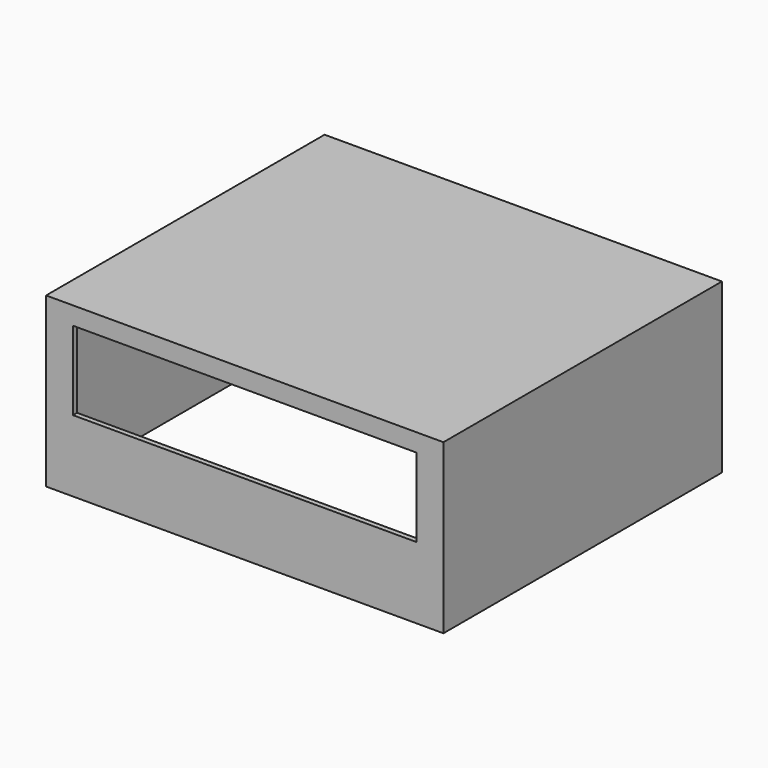
from build123d import *

# Parameters (mm, degrees)
F0_W     = 2220
F0_H     = 1945
F1_DEPTH = 940
F2_T     = -28.5
F3_W     = 1920
F3_H     = 440
F4_DEPTH = 28.5
F5_W     = 1920
F5_H     = 440
F6_DEPTH = 28.5


with BuildPart() as f1:
    # F0 (on Top) → F1 (new body)
    with BuildSketch(Plane.XY):
        Rectangle(F0_W, F0_H)
    extrude(amount=F1_DEPTH)

    # F2
    f2_openings = [f1.faces().sort_by_distance(p)[0] for p in [
        (0, 0, 0),
    ]]
    offset(amount=F2_T, openings=f2_openings)

    # F3 (on face) → F4 (cut, through all)
    with BuildSketch(Plane.XZ.offset(972.5)):
        with Locations((0, 620)):
            Rectangle(F3_W, F3_H)
    extrude(amount=-F4_DEPTH, mode=Mode.SUBTRACT)

    # F5 (on face) → F6 (cut, through all)
    with BuildSketch(Plane(origin=(0, 972.5, 0), x_dir=(-1, 0, 0), z_dir=(0, 1, 0))):
        with Locations((0, 620)):
            Rectangle(F5_W, F5_H)
    extrude(amount=-F6_DEPTH, mode=Mode.SUBTRACT)


solid = f1.part
